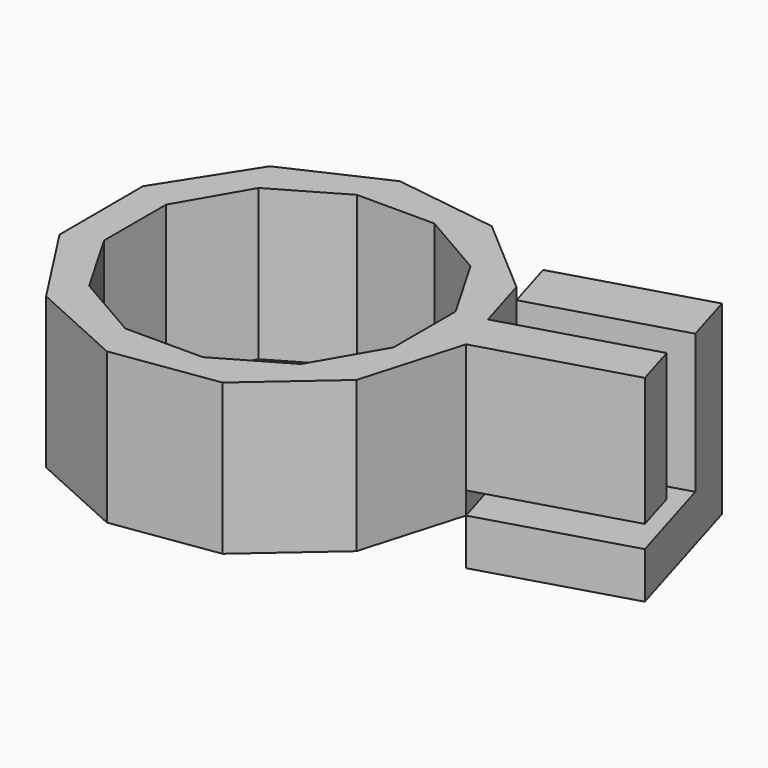
from build123d import *

# Parameters (mm, degrees)
F1_DEPTH = 25
F2_W     = 7.5292935522
F2_H     = 1.9215937704
F3_DEPTH = 25


with BuildPart() as f1:
    # F0 (on Top) → F1 (new body)
    with BuildSketch(Plane.XY):
        Polygon((22.7027747296, -20.9109676407), (17.7624833322, -4.2763235642), (4.6130781694, 7.0467063529), (-12.570597529, 9.4631401168), (-28.3328481427, 2.205777081), (-37.6692704726, -12.4212212686), (-37.615616397, -29.7738863054), (-28.1889207058, -44.3428694885), (-12.3820926751, -51.5026215965), (4.7863114811, -48.9799719237), (17.8654447493, -37.575843917), align=None)
        Polygon((9.4752828792, -38.5750406623), (-1.6629225776, -45.0056865811), (-14.5242144152, -45.0056865811), (-25.662419872, -38.5750406623), (-32.0930657908, -27.4368352055), (-32.0930657908, -14.5755433679), (-25.662419872, -3.4373379111), (-14.5242144152, 2.9933080077), (-1.6629225776, 2.9933080077), (9.4752828792, -3.4373379111), (15.905928798, -14.5755433679), (15.905928798, -27.4368352055), align=None, mode=Mode.SUBTRACT)
    extrude(amount=F1_DEPTH)

    # F2 (on face) → F3 (join)
    with BuildSketch(Plane(origin=(15.1557037318, 4.5010637092, 0), x_dir=(-0.284697928, 0.9586172801, 0), z_dir=(0.9586172801, 0.284697928, 0))):
        Polygon((-18.9797542989, 23.0784062296), (-26.5090478511, 23.0784062296), (-26.5090478511, 12.5), (-26.5090478511, 3.6788478028), (-18.9797542989, 3.6788478028), align=None)
        Polygon((0, 23.0784062296), (-9.1562998658, 23.0784062296), (-9.1562998658, 0), (-26.5090478511, 0), (-26.5090478511, -7.6790573075), (0, -7.6790573075), align=None)
        with Locations((-22.744401075, 24.0392031148)):
            Rectangle(F2_W, F2_H)
    extrude(amount=F3_DEPTH)


solid = f1.part
